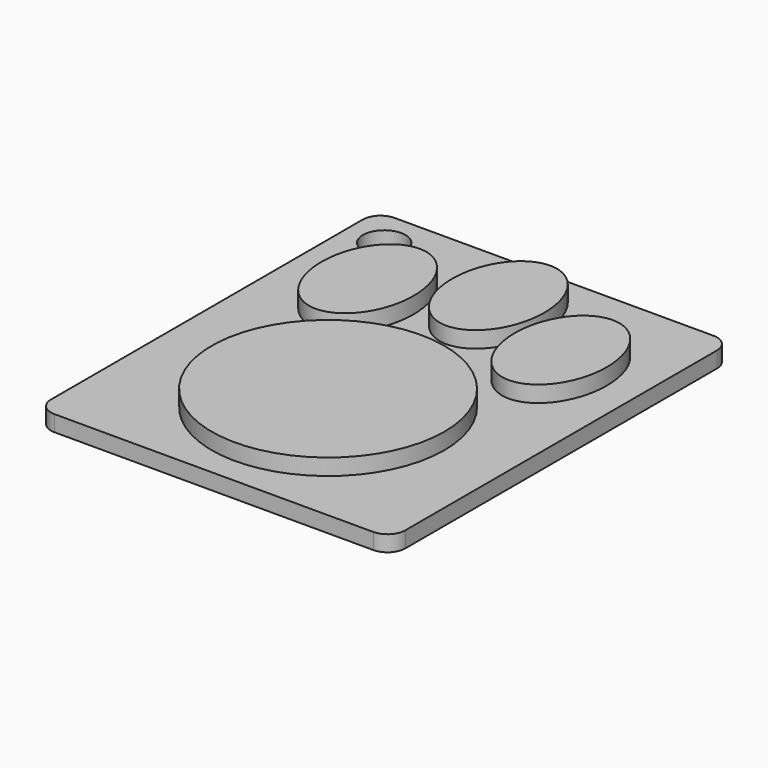
from build123d import *

# Parameters (mm, degrees)
F0_W     = 100
F0_H     = 120
F0_R     = 6
F1_DEPTH = 4.5
F2_R     = 5
F3_R     = 32.85
F4_DEPTH = 4.6


with BuildPart() as f1:
    # F0 (on Top) → F1 (new body)
    with BuildSketch(Plane.XY):
        Rectangle(F0_W, F0_H)
        with Locations((-39.375003, 49.289569)):
            Circle(F0_R, mode=Mode.SUBTRACT)
    extrude(amount=F1_DEPTH)

    # F2
    f2_edges = [f1.edges().sort_by_distance(p)[0] for p in [
        (-50, -60, 2.25),
        (50, -60, 2.25),
        (50, 60, 2.25),
        (-50, 60, 2.25),
    ]]
    fillet(f2_edges, radius=F2_R)

    # F3 (on face) → F4 (join)
    with BuildSketch(Plane.XY.offset(4.5)):
        with Locations((0, -19.746054)):
            Circle(F3_R)
        with BuildLine():
            add(Edge.make_bspline(
                [(-25.985471, 8.35891), (-3.46881, 8.35891), (-14.72714, 35.88391), (-25.985471, 63.40891), (-37.243801, 35.88391), (-48.502131, 8.35891), (-25.985471, 8.35891)],
                knots=[0, 0, 0, 2.094395, 2.094395, 4.18879, 4.18879, 6.283185, 6.283185, 6.283185], degree=2, weights=[1, 0.5, 1, 0.5, 1, 0.5, 1]))
        make_face()
        with BuildLine():
            add(Edge.make_bspline(
                [(1.551867, 20.048938), (24.068527, 20.048938), (12.810197, 47.573938), (1.551867, 75.098938), (-9.706464, 47.573938), (-20.964794, 20.048938), (1.551867, 20.048938)],
                knots=[0, 0, 0, 2.094395, 2.094395, 4.18879, 4.18879, 6.283185, 6.283185, 6.283185], degree=2, weights=[1, 0.5, 1, 0.5, 1, 0.5, 1]))
        make_face()
        with BuildLine():
            add(Edge.make_bspline(
                [(28.531192, 8.35891), (51.047852, 8.35891), (39.789522, 35.88391), (28.531192, 63.40891), (17.272861, 35.88391), (6.014531, 8.35891), (28.531192, 8.35891)],
                knots=[0, 0, 0, 2.094395, 2.094395, 4.18879, 4.18879, 6.283185, 6.283185, 6.283185], degree=2, weights=[1, 0.5, 1, 0.5, 1, 0.5, 1]))
        make_face()
    extrude(amount=F4_DEPTH)


solid = f1.part
